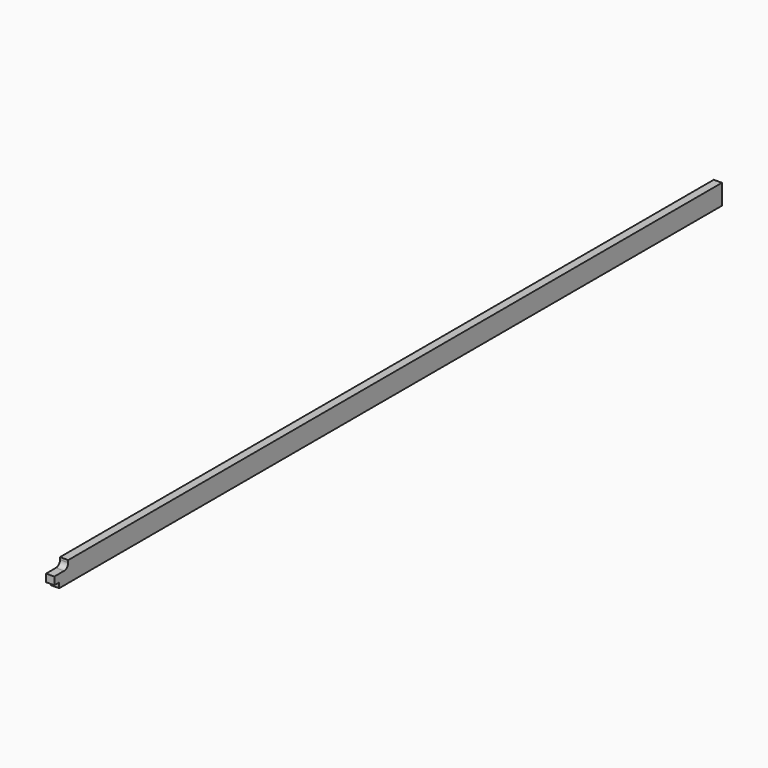
from build123d import *

# Parameters (mm, degrees)
F0_W     = 1.6
F0_H     = 3.95
F1_DEPTH = 163.1
F2_W     = 1.2
F2_H     = 1
F3_DEPTH = 1.601


with BuildPart() as f1:
    # F0 (on Front) → F1 (new body)
    with BuildSketch(Plane.XZ):
        with Locations((0.8, 1.975)):
            Rectangle(F0_W, F0_H)
    extrude(amount=F1_DEPTH)

    # F2 (on face) → F3 (cut, through all)
    with BuildSketch(Plane.YZ.offset(1.6)):
        with BuildLine():
            Line((-159.7, 3.95), (-163.1, 3.95))
            Line((-163.1, 3.95), (-163.1, 2.5))
            Line((-163.1, 2.5), (-160.7, 2.5))
            ThreePointArc((-160.7, 2.5), (-159.992893, 2.792893), (-159.7, 3.5))
            Line((-159.7, 3.5), (-159.7, 3.95))
        make_face()
        with Locations((-162.5, 0.5)):
            Rectangle(F2_W, F2_H)
    extrude(amount=-F3_DEPTH, mode=Mode.SUBTRACT)


solid = f1.part
